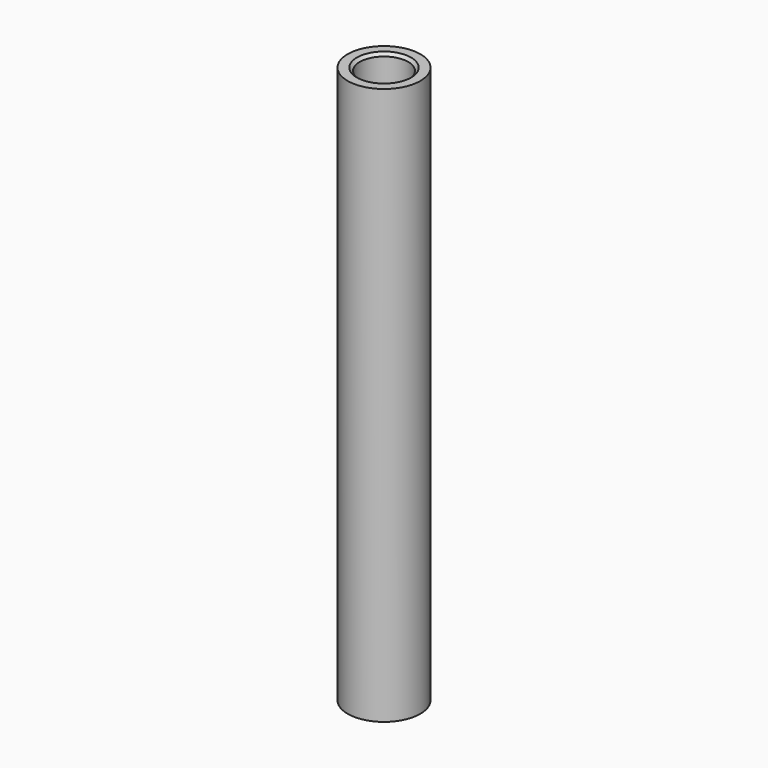
from build123d import *

# Parameters (mm, degrees)
F0_W    = 1.5875
F0_H    = 73.025
F2_SIZE = 0.381


with BuildPart() as f1:
    # F0 (on Right) → F1 (revolve)
    with BuildSketch(Plane.YZ):
        with Locations((3.96875, 36.5125)):
            Rectangle(F0_W, F0_H)
    revolve(axis=Axis((0, 0, -8.510036), (0, 0, -1)))

    # F2
    f2_edges = [f1.edges().sort_by_distance(p)[0] for p in [
        (0, -3.175, 73.025),
        (0, -3.175, 0),
    ]]
    chamfer(f2_edges, length=F2_SIZE)


solid = f1.part
